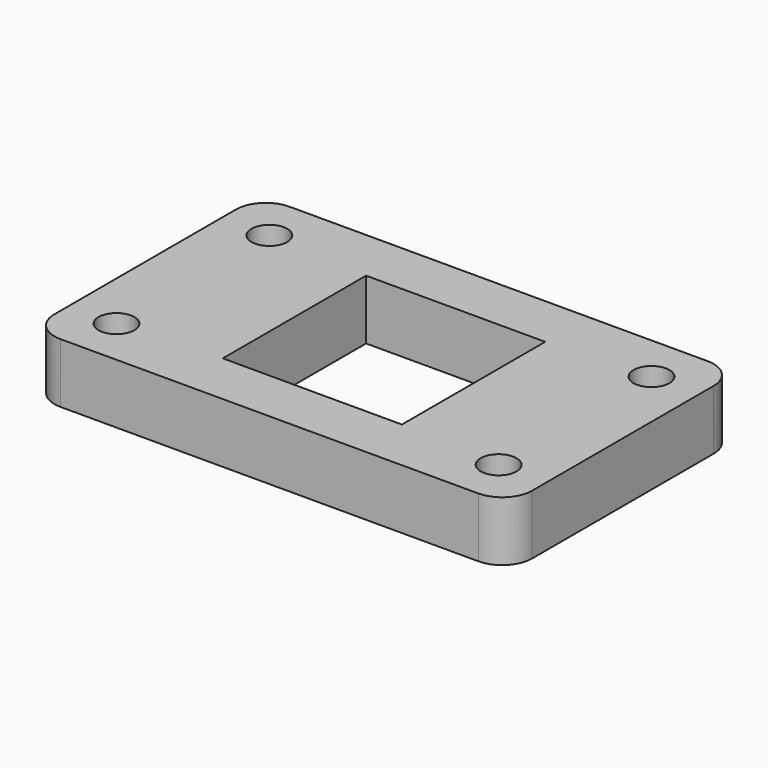
from build123d import *

# Parameters (mm, degrees)
F0_R     = 3
F1_DEPTH = 10
F2_R     = 5
F3_D     = 6


with BuildPart() as f1:
    # F0 (on Top) → F1 (new body)
    with BuildSketch(Plane.XY):
        with BuildLine():
            Line((-40, -24), (-12.3693168769, -24))
            ThreePointArc((-12.3693168769, -24), (-27, 0), (-12.3693168769, 24))
            Line((-12.3693168769, 24), (-40, 24))
            Line((-40, 24), (-40, -24))
        make_face()
        with BuildLine():
            Line((15, 0), (15, -15))
            Line((15, -15), (3.96875, -15))
            Line((3.96875, -15), (-3.96875, -15))
            Line((-3.96875, -15), (-15, -15))
            Line((-15, -15), (-15, 15))
            Line((-15, 15), (-3.96875, 15))
            Line((-3.96875, 15), (3.96875, 15))
            Line((3.96875, 15), (15, 15))
            Line((15, 15), (15, 4.21875))
            Line((15, 4.21875), (25.9915753842, 7.3101305768))
            ThreePointArc((25.9915753842, 7.3101305768), (20.9171568122, 17.0725672028), (12.3693168769, 24))
            Line((12.3693168769, 24), (-12.3693168769, 24))
            ThreePointArc((-12.3693168769, 24), (-27, 0), (-12.3693168769, -24))
            Line((-12.3693168769, -24), (12.3693168769, -24))
            ThreePointArc((12.3693168769, -24), (23.0539753153, -14.0539753153), (27, 0))
            Line((27, 0), (15, 0))
        make_face()
        with BuildLine():
            Line((15, 4.21875), (15, 0))
            Line((15, 0), (27, 0))
            ThreePointArc((27, 0), (26.7467057352, 3.6896791614), (25.9915753842, 7.3101305768))
            Line((25.9915753842, 7.3101305768), (15, 4.21875))
        make_face()
        with BuildLine():
            ThreePointArc((25.9915753842, 7.3101305768), (26.7467057352, 3.6896791614), (27, 0))
            ThreePointArc((27, 0), (23.0539753153, -14.0539753153), (12.3693168769, -24))
            Line((12.3693168769, -24), (40, -24))
            Line((40, -24), (40, 24))
            Line((40, 24), (12.3693168769, 24))
            ThreePointArc((12.3693168769, 24), (20.9171568122, 17.0725672028), (25.9915753842, 7.3101305768))
        make_face()
        with Locations((32, 16)):
            Circle(F0_R, mode=Mode.SUBTRACT)
        with Locations((32, 16)):
            Circle(F0_R)
    extrude(amount=F1_DEPTH)

    # F2
    f2_edges = [f1.edges().sort_by_distance(p)[0] for p in [
        (40, 24, 5),
        (40, -24, 5),
        (-40, 24, 5),
        (-40, -24, 5),
    ]]
    fillet(f2_edges, radius=F2_R)

    # F3 (through all)
    with Locations(Plane(origin=(0, 0, 0), x_dir=(1, 0, 0), z_dir=(0, 0, -1))):
        with Locations((32, -16), (32, 16), (-32, -16), (-32, 16)):
            Hole(F3_D / 2)


solid = f1.part
